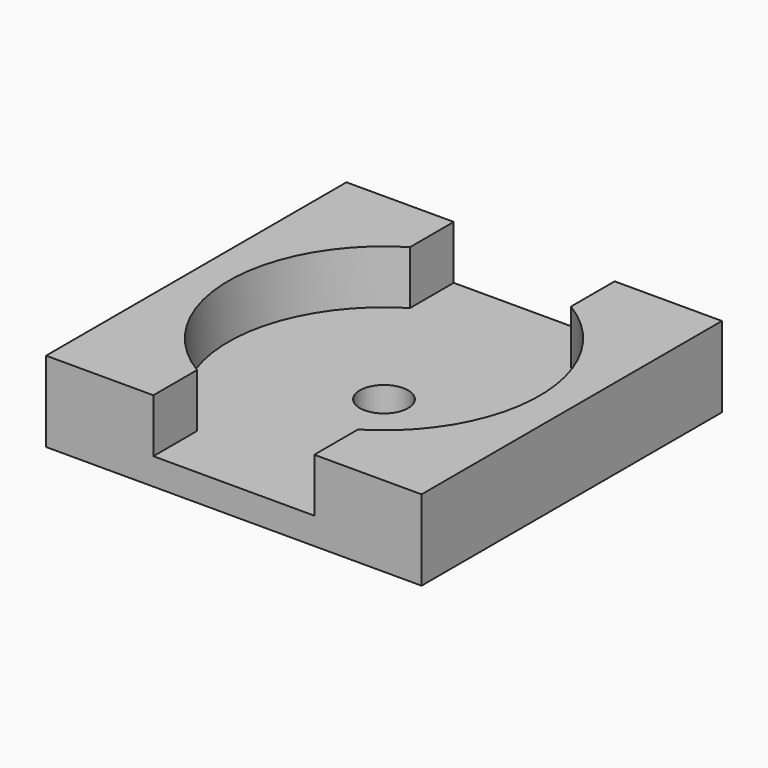
from build123d import *

# Parameters (mm, degrees)
SKETCH006_W     = 14
SKETCH006_H     = 14
PAD002_DEPTH    = 3
POCKET004_DEPTH = 2
SKETCH008_R     = 0.9
POCKET005_DEPTH = 1.001


with BuildPart() as part:
    # Sketch006 → Pad002 (new body)
    with BuildSketch(Plane.XY):
        Rectangle(SKETCH006_W, SKETCH006_H)
    extrude(amount=PAD002_DEPTH)

    # Sketch007 (on Face6 of Pad002) → Pocket004 (cut)
    with BuildSketch(Plane.XY.offset(3)):
        with BuildLine():
            Line((-3, 7), (-3, 4.963869))
            ThreePointArc((-3, 4.963869), (-5.8, 0), (-3, -4.963869))
            Line((-3, -7), (-3, -4.963869))
            Line((3, -7), (-3, -7))
            Line((3, -4.963869), (3, -7))
            ThreePointArc((3, -4.963869), (5.8, 0), (3, 4.963869))
            Line((3, 7), (3, 4.963869))
            Line((-3, 7), (3, 7))
        make_face()
    extrude(amount=-POCKET004_DEPTH, mode=Mode.SUBTRACT)

    # Sketch008 (on Face6 of Pocket004) → Pocket005 (cut, through all)
    with BuildSketch(Plane.XY.offset(1)):
        Circle(SKETCH008_R)
    extrude(amount=-POCKET005_DEPTH, mode=Mode.SUBTRACT)


with BuildPart() as part_1:
    # Clone placement: moved
    add(part.part.moved(Location((-11.2, 0, 0))))


solid = part_1.part
